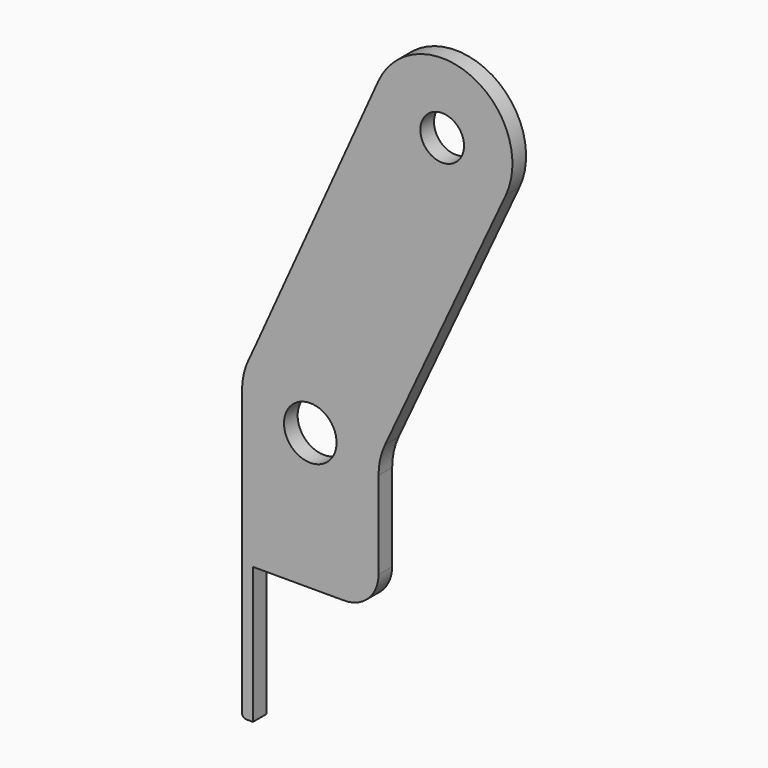
from build123d import *

# Parameters (mm, degrees)
F0_R     = 4.8895
F0_R_2   = 4.064
F1_DEPTH = 3.175


with BuildPart() as f1:
    # F0 (on Front) → F1 (new body)
    with BuildSketch(Plane.XZ):
        with BuildLine():
            Line((-11.899993, -63.5), (-10.668, -63.5))
            Line((-10.668, -63.5), (-10.668, -38.1))
            Line((-10.668, -38.1), (6.35, -38.1))
            ThreePointArc((6.35, -38.1), (10.840128, -36.240128), (12.7, -31.75))
            Line((12.7, -31.75), (12.7, -15.515522))
            ThreePointArc((12.7, -15.515522), (13.001041, -12.766739), (13.889891, -10.14827))
            Line((13.889891, -10.14827), (36.388429, 38.1))
            ThreePointArc((36.388429, 38.1), (29.989492, 55.502647), (12.62931, 48.989385))
            Line((12.62931, 48.989385), (-10.320218, -1.965496))
            Line((-10.320218, -1.965496), (-11.510109, -4.517226))
            ThreePointArc((-11.510109, -4.517226), (-12.398959, -7.135695), (-12.7, -9.884478))
            Line((-12.7, -9.884478), (-12.7, -13.226439))
            Line((-12.7, -13.226439), (-12.7, -62.699993))
            ThreePointArc((-12.7, -62.699993), (-12.465683, -63.265683), (-11.899993, -63.5))
        make_face()
        with Locations((0, -12.7)):
            Circle(F0_R, mode=Mode.SUBTRACT)
        with Locations((24.544682, 43.62283)):
            Circle(F0_R_2, mode=Mode.SUBTRACT)
    extrude(amount=F1_DEPTH)


solid = f1.part
